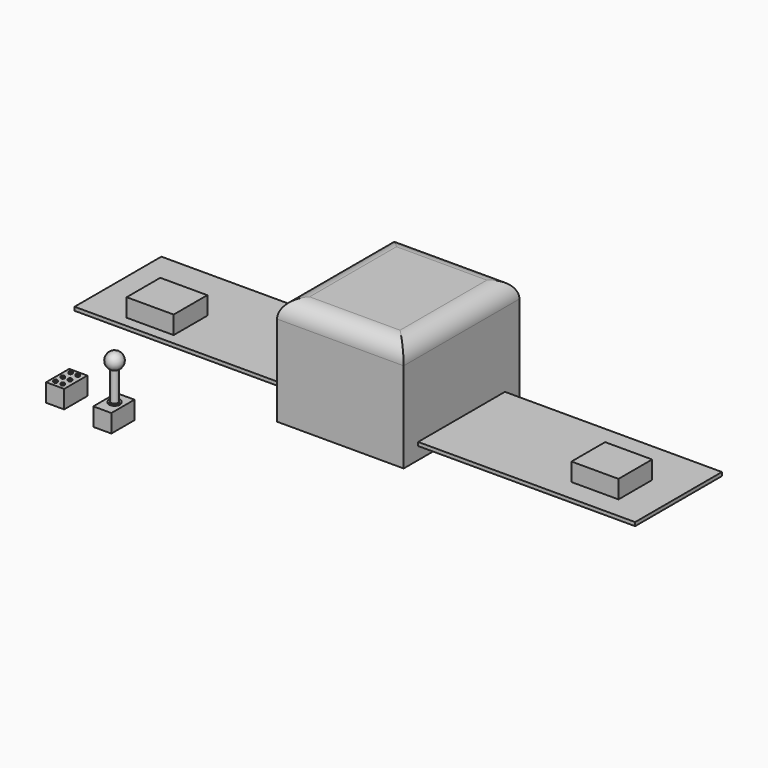
from build123d import *

# Parameters (mm, degrees)
F0_W      = 35
F0_H      = 40
F1_DEPTH  = 30
F2_R      = 5
F3_W      = 30
F3_H      = 1
F4_DEPTH  = 60
F5_W      = 30
F5_H      = 1
F6_DEPTH  = 60
F7_W      = 13
F7_H      = 11.616135
F7_H_2    = 11.62
F8_DEPTH  = 5
F9_W      = 5
F9_H      = 8
F10_DEPTH = 5
F11_R     = 0.5
F12_DEPTH = 0.3
F13_R     = 1.5
F14_DEPTH = 0.3
F15_R     = 1
F16_DEPTH = 10


with BuildPart() as f1:
    # F0 (on Top) → F1 (new body)
    with BuildSketch(Plane.XY):
        with Locations((0.849521, 0.383865)):
            Rectangle(F0_W, F0_H)
    extrude(amount=F1_DEPTH)

    # F2
    f2_edges = [f1.edges().sort_by_distance(p)[0] for p in [
        (-16.650479, 0.383865, 30),
        (18.349521, 0.383865, 30),
        (0.849521, 20.383865, 30),
        (0.849521, -19.616135, 30),
    ]]
    fillet(f2_edges, radius=F2_R)

    # F3 (on face) → F4 (join)
    with BuildSketch(Plane.YZ.offset(18.349521)):
        with Locations((0.383865, 3.93167)):
            Rectangle(F3_W, F3_H)
    extrude(amount=F4_DEPTH)

    # F5 (on face) → F6 (join)
    with BuildSketch(Plane(origin=(-16.650479, 0, 0), x_dir=(0, -1, 0), z_dir=(-1, 0, 0))):
        with Locations((-0.383865, 5.952863)):
            Rectangle(F5_W, F5_H)
    extrude(amount=F6_DEPTH)

    # F7 (on face) → F8 (join)
    with BuildSketch(Plane.XY.offset(6.452863)):
        with Locations((-58.150479, -5.808067)):
            Rectangle(F7_W, F7_H)
        with Locations((64.849521, -5.806135)):
            Rectangle(F7_W, F7_H_2)
    extrude(amount=F8_DEPTH)


with BuildPart() as f10:
    # F9 (on Top) → F10 (new body)
    with BuildSketch(Plane.XY):
        with Locations((-58.639002, -39.855127)):
            Rectangle(F9_W, F9_H)
        with Locations((-43.639002, -42.298621)):
            Rectangle(F9_W, F9_H)
    extrude(amount=F10_DEPTH)

    # F11 (on face) → F12 (join)
    with BuildSketch(Plane.XY.offset(5)):
        with Locations((-59.639002, -37.255127)):
            Circle(F11_R)
        with Locations((-57.639002, -37.255127)):
            Circle(F11_R)
        with Locations((-59.639002, -39.955127)):
            Circle(F11_R)
        with Locations((-57.639002, -39.955127)):
            Circle(F11_R)
        with Locations((-59.639002, -42.455127)):
            Circle(F11_R)
        with Locations((-57.639002, -42.455127)):
            Circle(F11_R)
    extrude(amount=F12_DEPTH)

    # F13 (on face) → F14 (join)
    with BuildSketch(Plane.XY.offset(5)):
        with Locations((-43.613497, -42.098621)):
            Circle(F13_R)
    extrude(amount=F14_DEPTH)

    # F15 (on face) → F16 (join)
    with BuildSketch(Plane.XY.offset(5.3)):
        with Locations((-43.613497, -42.098621)):
            Circle(F15_R)
    extrude(amount=F16_DEPTH)


with BuildPart() as f18:
    # F17 (on face) → F18 (revolve)
    with BuildSketch(Plane.XY.offset(15.3)):
        with BuildLine():
            Line((-43.613497, -42.098621), (-43.613497, -44.341954))
            ThreePointArc((-43.613497, -44.341954), (-41.370165, -42.098621), (-43.613497, -39.855289))
            Line((-43.613497, -39.855289), (-43.613497, -42.098621))
        make_face()
    revolve(axis=Axis((-43.613497, -40.976955, 15.3), (0, 1, 0)))


solid = Compound([f1.part, f10.part, f18.part])
